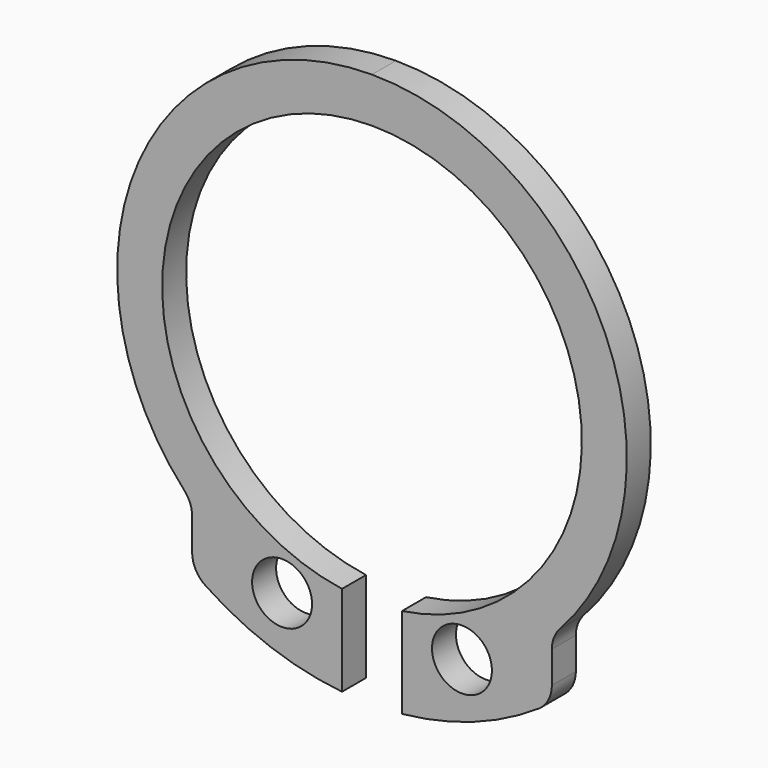
from build123d import *

# Parameters (mm, degrees)
F0_R     = 1
F1_DEPTH = 1


with BuildPart() as f1:
    # F0 (on Front) → F1 (new body)
    with BuildSketch(Plane.XZ):
        with BuildLine():
            ThreePointArc((-1, -6.928203), (-6.982028, 0.501287), (0, 7))
            Line((0, 7), (0, 8.5))
            ThreePointArc((0, 8.5), (-7.781249, 3.420841), (-6.263158, -5.746551))
            ThreePointArc((-6.263158, -5.746551), (-6.068109, -6.059878), (-6, -6.422616))
            Line((-6, -6.422616), (-6, -7.483315))
            ThreePointArc((-6, -7.483315), (-5.881917, -7.954719), (-5.555556, -8.314794))
            ThreePointArc((-5.555556, -8.314794), (-3.378195, -9.412109), (-1, -9.949874))
            Line((-1, -9.949874), (-1, -6.928203))
        make_face()
        with Locations((-3, -7.7)):
            Circle(F0_R, mode=Mode.SUBTRACT)
        with BuildLine():
            ThreePointArc((0, 7), (6.982028, 0.501287), (1, -6.928203))
            Line((1, -6.928203), (1, -9.949874))
            ThreePointArc((1, -9.949874), (3.378195, -9.412109), (5.555556, -8.314794))
            ThreePointArc((5.555556, -8.314794), (5.881917, -7.954719), (6, -7.483315))
            Line((6, -7.483315), (6, -6.422616))
            ThreePointArc((6, -6.422616), (6.068109, -6.059878), (6.263158, -5.746551))
            ThreePointArc((6.263158, -5.746551), (7.781249, 3.420841), (0, 8.5))
            Line((0, 8.5), (0, 7))
        make_face()
        with Locations((3, -7.7)):
            Circle(F0_R, mode=Mode.SUBTRACT)
    extrude(amount=F1_DEPTH)


solid = f1.part
